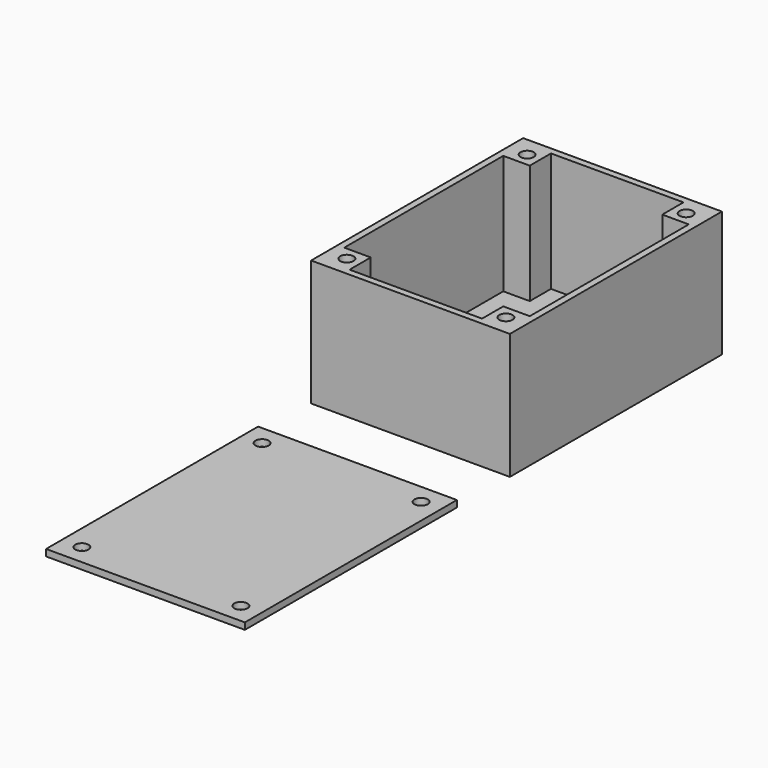
from build123d import *

# Parameters (mm, degrees)
F3_W      = 60
F3_H      = 80
F4_DEPTH  = 38
F5_W      = 56
F5_H      = 76
F6_DEPTH  = 36
F7_W      = 8
F7_H      = 8
F8_DEPTH  = 36
F9_R      = 2
F10_DEPTH = 30
F11_W     = 60
F11_H     = 80
F12_DEPTH = 2
F13_R     = 2
F14_DEPTH = 2


with BuildPart() as f4:
    # F3 (on Top) → F4 (new body)
    with BuildSketch(Plane.XY):
        Rectangle(F3_W, F3_H)
    extrude(amount=F4_DEPTH)

    # F5 (on face) → F6 (cut)
    with BuildSketch(Plane.XY.offset(38)):
        Rectangle(F5_W, F5_H)
    extrude(amount=-F6_DEPTH, mode=Mode.SUBTRACT)

    # F7 (on face) → F8 (join)
    with BuildSketch(Plane.XY.offset(2)):
        with Locations((-24, 34)):
            Rectangle(F7_W, F7_H)
        with Locations((24, 34)):
            Rectangle(F7_W, F7_H)
        with Locations((24, -34)):
            Rectangle(F7_W, F7_H)
        with Locations((-24, -34)):
            Rectangle(F7_W, F7_H)
    extrude(amount=F8_DEPTH)

    # F9 (on face) → F10 (cut)
    with BuildSketch(Plane.XY.offset(38)):
        with Locations((-24, 34)):
            Circle(F9_R)
        with Locations((24, 34)):
            Circle(F9_R)
        with Locations((24, -34)):
            Circle(F9_R)
        with Locations((-24, -34)):
            Circle(F9_R)
    extrude(amount=-F10_DEPTH, mode=Mode.SUBTRACT)


with BuildPart() as f12:
    # F11 (on Top) → F12 (new body)
    with BuildSketch(Plane.XY):
        with Locations((0, -100)):
            Rectangle(F11_W, F11_H)
    extrude(amount=F12_DEPTH)

    # F13 (on face) → F14 (cut)
    with BuildSketch(Plane.XY.offset(2)):
        with Locations((-24, -134)):
            Circle(F13_R)
        with Locations((-24, -66)):
            Circle(F13_R)
        with Locations((24, -66)):
            Circle(F13_R)
        with Locations((24, -134)):
            Circle(F13_R)
    extrude(amount=-F14_DEPTH, mode=Mode.SUBTRACT)


solid = Compound([f4.part, f12.part])
